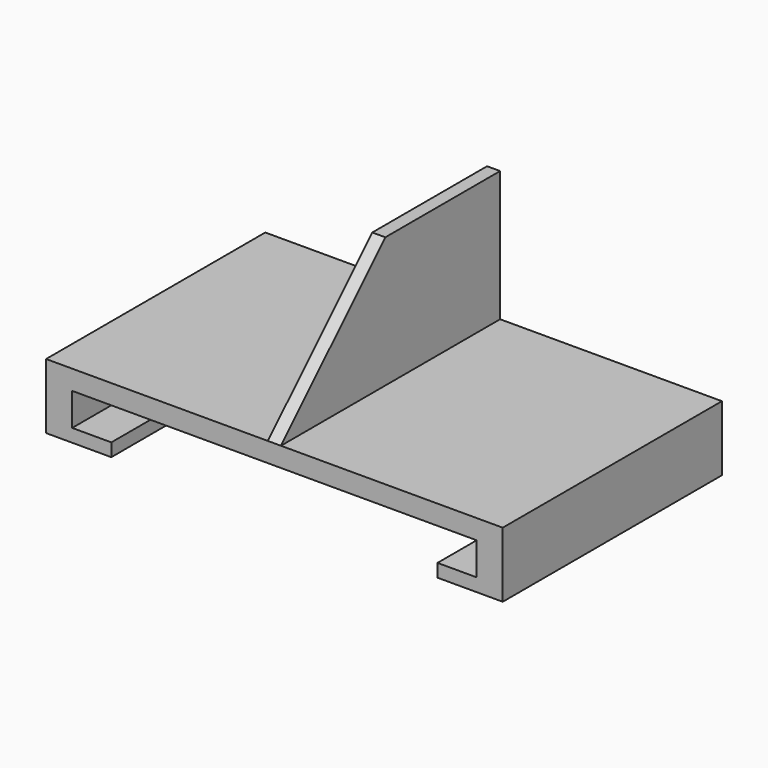
from build123d import *

# Parameters (mm, degrees)
F0_W     = 88.9
F0_H     = 53.34
F1_DEPTH = 12.7
F2_W     = 78.74
F2_H     = 6.35
F3_DEPTH = 50.8
F4_W     = 63.5
F4_H     = 17.78
F5_DEPTH = 53.341
F6_W     = 2.54
F6_H     = 53.34
F7_DEPTH = 25.4
F8_SIZE  = 25.4


with BuildPart() as f1:
    # F0 (on Top) → F1 (new body)
    with BuildSketch(Plane.XY):
        Rectangle(F0_W, F0_H)
    extrude(amount=F1_DEPTH)

    # F2 (on face) → F3 (cut)
    with BuildSketch(Plane.XZ.offset(26.67)):
        with Locations((0, 5.715)):
            Rectangle(F2_W, F2_H)
    extrude(amount=-F3_DEPTH, mode=Mode.SUBTRACT)

    # F4 (on face) → F5 (cut, through all)
    with BuildSketch(Plane.XZ.offset(26.67)):
        Rectangle(F4_W, F4_H)
    extrude(amount=-F5_DEPTH, mode=Mode.SUBTRACT)

    # F6 (on face) → F7 (join)
    with BuildSketch(Plane.XY.offset(12.7)):
        Rectangle(F6_W, F6_H)
    extrude(amount=F7_DEPTH)

    # F8
    f8_edges = [f1.edges().sort_by_distance(p)[0] for p in [
        (0, -26.67, 38.1),
    ]]
    chamfer(f8_edges, length=F8_SIZE)


solid = f1.part
